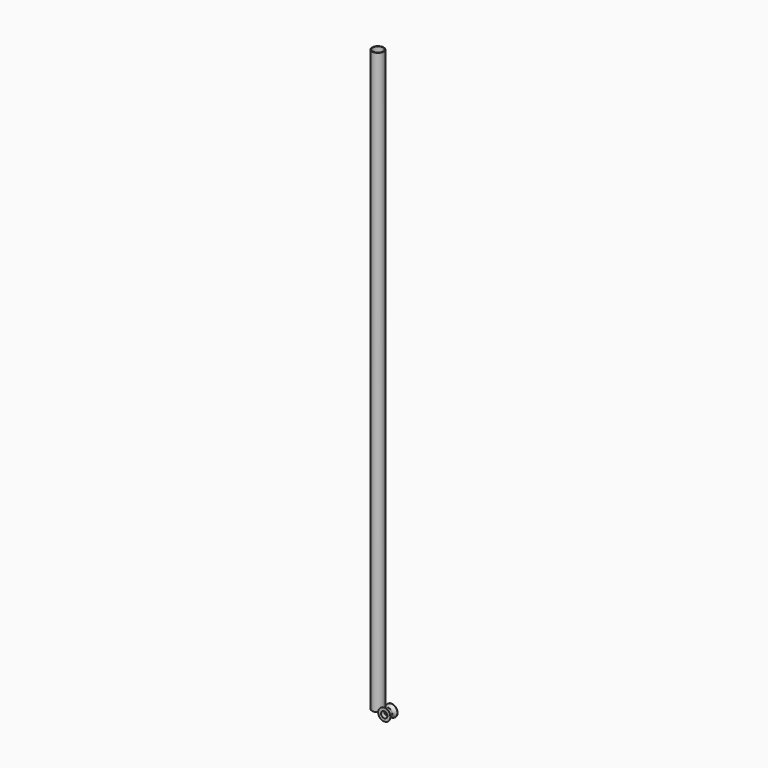
from build123d import *

# Parameters (mm, degrees)
F2_R     = 10
F2_R_2   = 9
F3_DEPTH = 1000


with BuildPart() as f1:
    # F0 (on Top) → F1 (revolve)
    with BuildSketch(Plane.XY):
        with BuildLine():
            Line((-4, 1.875795), (-4, 10.475795))
            Line((-4, 10.475795), (-10.5, 10.475795))
            Line((-10.5, 10.475795), (-10.496641, 9.975806))
            ThreePointArc((-10.496641, 9.975806), (-8.21848, 6.791912), (-7.337287, 2.977373))
            Line((-7.337287, 2.977373), (-7.237287, 2.977373))
            Line((-7.237287, 2.977373), (-7.237287, 2.377373))
            Line((-7.237287, 2.377373), (-7.337287, 2.377373))
            ThreePointArc((-7.337287, 2.377373), (-8.219426, -1.439262), (-10.5, -4.624205))
            Line((-10.5, -4.624205), (-10.5, -5.124205))
            Line((-10.5, -5.124205), (-5.5, -5.124205))
            Line((-5.5, -5.124205), (-5.5, 1.875795))
            Line((-5.5, 1.875795), (-4, 1.875795))
        make_face()
    revolve(axis=Axis((0, 2.00804, 0), (0, -1, 0)))


with BuildPart() as f3:
    # F2 (on Top) → F3 (new body)
    with BuildSketch(Plane.XY):
        with Locations((-17.328329, 2.815727)):
            Circle(F2_R)
        with Locations((-17.328329, 2.815727)):
            Circle(F2_R_2, mode=Mode.SUBTRACT)
    extrude(amount=F3_DEPTH)


solid = Compound([f1.part, f3.part])
